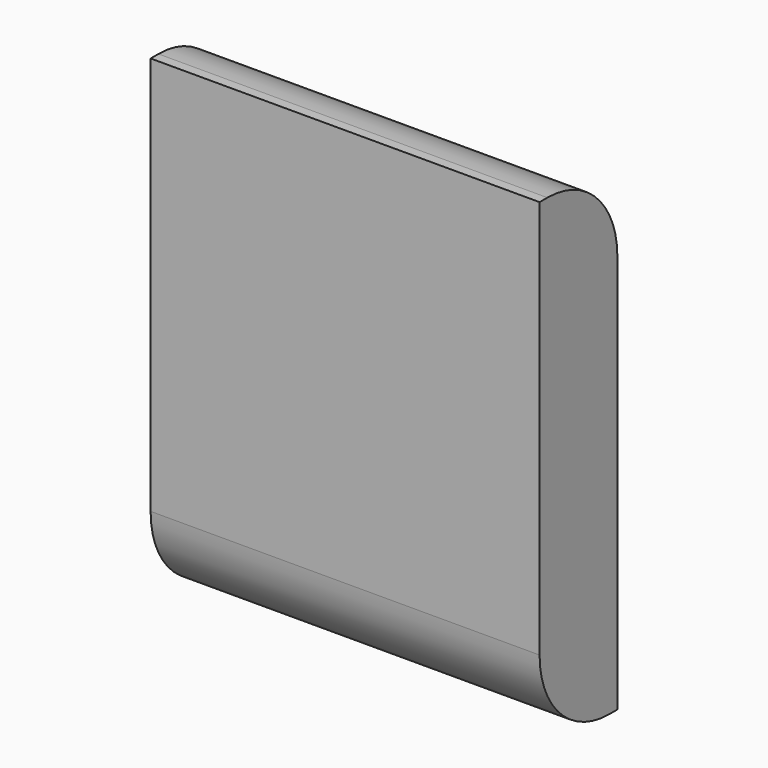
from build123d import *

# Parameters (mm, degrees)
F0_W     = 10.16
F0_H     = 12.7
F1_DEPTH = 2.54
F2_R     = 2.286
F3_R     = 2.286


with BuildPart() as f1:
    # F0 (on Front) → F1 (new body)
    with BuildSketch(Plane.XZ):
        Rectangle(F0_W, F0_H)
    extrude(amount=F1_DEPTH)

    # F2
    f2_edges = [f1.edges().sort_by_distance(p)[0] for p in [
        (0, -2.54, -6.35),
    ]]
    fillet(f2_edges, radius=F2_R)

    # F3
    f3_edges = [f1.edges().sort_by_distance(p)[0] for p in [
        (0, 0, 6.35),
    ]]
    fillet(f3_edges, radius=F3_R)


solid = f1.part
